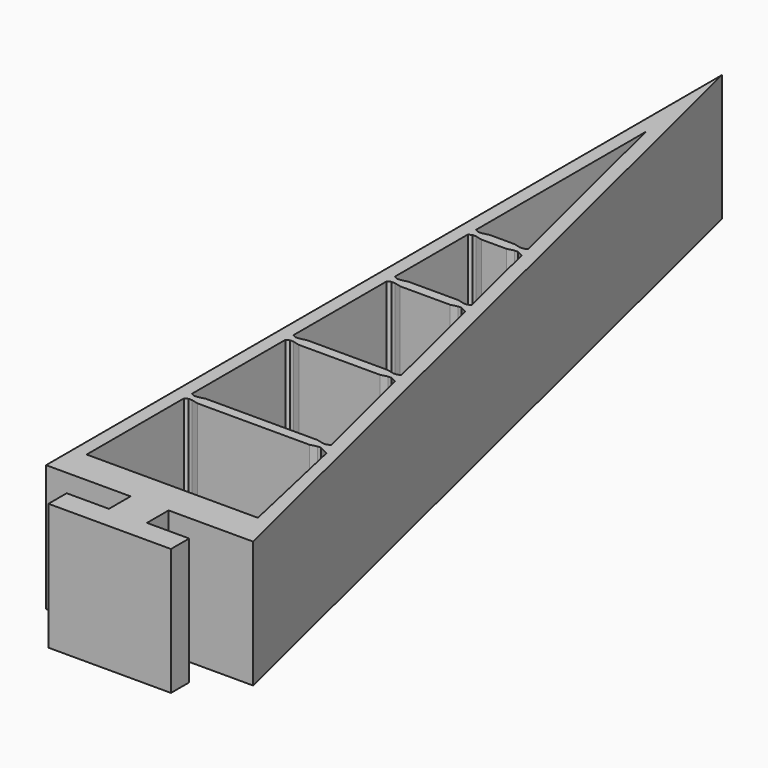
from build123d import *

# Parameters (mm, degrees)
F1_DEPTH = 15


with BuildPart() as f1:
    # F0 (on Top) → F1 (new body)
    with BuildSketch(Plane.XY):
        Polygon((0, 2.7), (0, 0), (14.5, 0), (14.5, 2.7), (9.5, 2.7), (9.5, 5.9), (19.5, 5.9), (-5, 105.9), (-5, 5.9), (5, 5.9), (5, 2.7), align=None)
        Polygon((16.87268, 9.9), (-3.4, 9.9), (-3.4, 23.06697), (-3.4, 24.3), (-3, 24.5), (-2.6, 24.5), (-1.8, 24.3), (11.45068, 24.3), (12.25068, 24.5), (12.65068, 24.5), (13.745434, 23.952623), align=None, mode=Mode.SUBTRACT)
        Polygon((8.981001, 39.5), (9.70998, 39.135511), (13.05068, 25.5), (12.65068, 25.3), (12.25068, 25.3), (11.45068, 25.5), (-1.8, 25.5), (-2.6, 25.3), (-3, 25.3), (-3.4, 25.5), (-3.4, 26.733285), (-3.4, 39.299999), (-2.998656, 39.5), (-2.598656, 39.5), (-1.798656, 39.3), (7.781001, 39.3), (8.581001, 39.5), align=None, mode=Mode.SUBTRACT)
        Polygon((5.306001, 54.5), (6.041044, 54.132479), (9.381001, 40.5), (8.981001, 40.3), (8.581001, 40.3), (7.781001, 40.5), (-1.8, 40.5), (-2.6, 40.3), (-3, 40.3), (-3.4, 40.466429), (-3.4, 54.3), (-3, 54.5), (-2.6, 54.5), (-1.8, 54.3), (4.106001, 54.3), (4.906001, 54.5), align=None, mode=Mode.SUBTRACT)
        Polygon((2.366001, 66.5), (3.101044, 66.132479), (5.706001, 55.5), (5.306001, 55.3), (4.906001, 55.3), (4.106001, 55.5), (-1.8, 55.5), (-2.6, 55.3), (-3, 55.3), (-3.4, 55.5), (-3.4, 66.3), (-3, 66.5), (-2.6, 66.5), (-1.8, 66.3), (1.166001, 66.3), (1.966001, 66.5), align=None, mode=Mode.SUBTRACT)
        Polygon((-3.4, 75.38324), (-3.4, 92.645632), (0.804118, 75.485968), (1.518031, 72.593754), (2.766001, 67.5), (2.366001, 67.3), (1.966001, 67.3), (1.166001, 67.5), (-1.8, 67.5), (-2.6, 67.3), (-3, 67.3), (-3.4, 67.5), (-3.4, 72.41676), align=None, mode=Mode.SUBTRACT)
    extrude(amount=F1_DEPTH)


solid = f1.part
